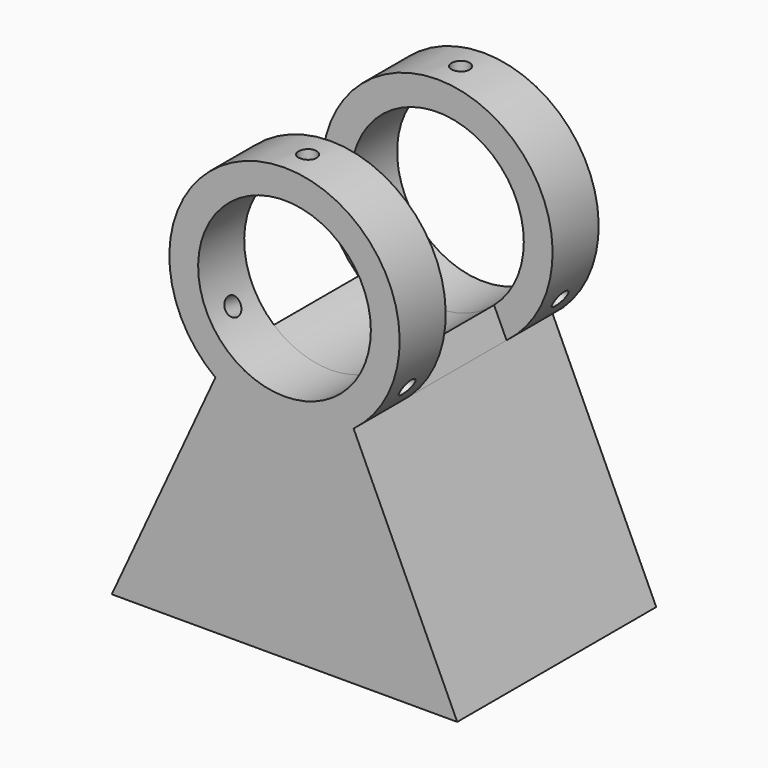
from build123d import *

# Parameters (mm, degrees)
F0_R      = 19.05
F1_DEPTH  = 54.864
F3_W      = 76.2
F3_H      = 29.464
F4_DEPTH  = 82.551
F9_R      = 1.9939
F10_DEPTH = 25.401
F11_R     = 1.9939
F12_DEPTH = 67.921568
F13_R     = 1.9939
F14_DEPTH = 67.921568
F17_DEPTH = 42.164


with BuildPart() as f1:
    # F0 (on Front) → F1 (new body)
    with BuildSketch(Plane.XZ):
        with BuildLine():
            Line((38.1, 0), (15.24, 49.53))
            ThreePointArc((15.24, 49.53), (0, 95.25), (-15.24, 49.53))
            Line((-15.24, 49.53), (-38.1, 0))
            Line((-38.1, 0), (38.1, 0))
        make_face()
        with Locations((0, 69.85)):
            Circle(F0_R, mode=Mode.SUBTRACT)
    extrude(amount=-F1_DEPTH)

    # F3 (on offset) → F4 (cut, through all)
    with BuildSketch(Plane.XY.offset(12.7)):
        with Locations((0, 27.432)):
            Rectangle(F3_W, F3_H)
    extrude(amount=F4_DEPTH, mode=Mode.SUBTRACT)

    # F9 (on face) → F10 (cut, through all)
    with BuildSketch(Plane.XY.offset(69.85)):
        with Locations((0, 6.35)):
            Circle(F9_R)
        with Locations((0, 48.514)):
            Circle(F9_R)
    extrude(amount=F10_DEPTH, mode=Mode.SUBTRACT)

    # F11 (on face) → F12 (cut, through all)
    with BuildSketch(Plane(origin=(30.245937, 0, 17.4625), x_dir=(0, 1, 0), z_dir=(0.866025, 0, 0.5))):
        with Locations((6.35, 60.491874)):
            Circle(F11_R)
        with Locations((48.514, 60.491874)):
            Circle(F11_R)
    extrude(amount=-F12_DEPTH, mode=Mode.SUBTRACT)

    # F13 (on face) → F14 (cut, through all)
    with BuildSketch(Plane(origin=(-30.245937, 0, 17.4625), x_dir=(0, -1, 0), z_dir=(-0.866025, 0, 0.5))):
        with Locations((-48.514, 60.491874)):
            Circle(F13_R)
        with Locations((-6.35, 60.491874)):
            Circle(F13_R)
    extrude(amount=-F14_DEPTH, mode=Mode.SUBTRACT)

    # F16 (on face) → F17 (join, through all)
    with BuildSketch(Plane.XZ):
        with BuildLine():
            Line((-12.497391, 55.472319), (-15.24, 49.53))
            Line((-15.24, 49.53), (-38.1, 0))
            Line((-38.1, 0), (38.1, 0))
            Line((38.1, 0), (15.24, 49.53))
            Line((15.24, 49.53), (12.497391, 55.472319))
            ThreePointArc((12.497391, 55.472319), (0, 50.8), (-12.497391, 55.472319))
        make_face()
    extrude(amount=-F17_DEPTH)


solid = f1.part
